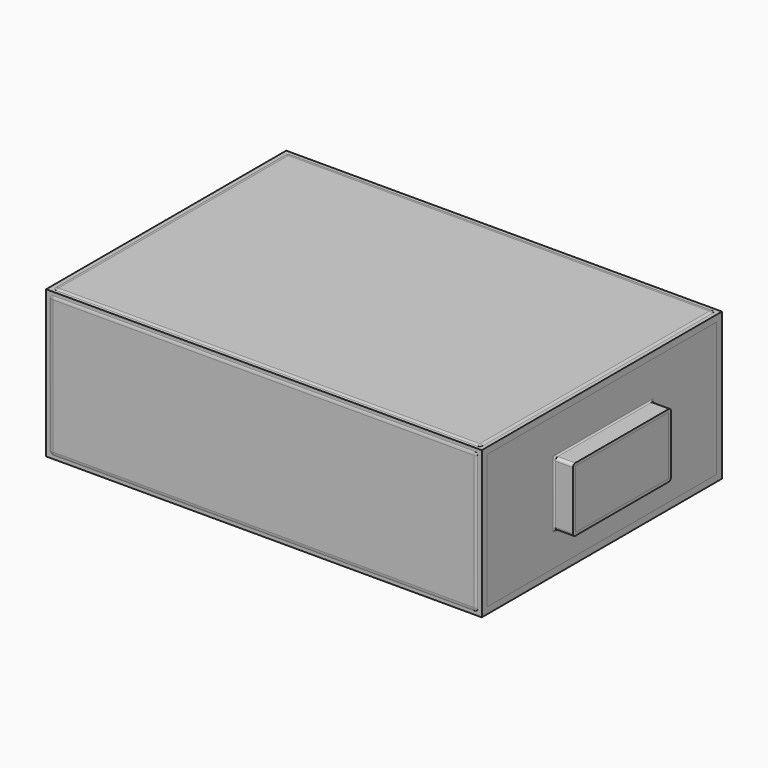
from build123d import *

# Parameters (mm, degrees)
SKETCH001_W       = 299
SKETCH001_H       = 206
PAD_DEPTH         = 91.5
PAD_DEPTH_BACK    = 9.5
SKETCH002_W       = 295
SKETCH002_H       = 203
PAD001_DEPTH      = 90
PAD001_DEPTH_BACK = 8
SKETCH003_W       = 80
SKETCH003_H       = 40
PAD002_DEPTH      = 275
PAD002_DEPTH_BACK = 50
FILLET001_R       = 3
THICKNESS_T       = 2
FILLET_R          = 2
ARRAY_X_COUNT     = 5
ARRAY_X_PITCH     = 50


with BuildPart() as obj1:
    # Sketch001 → Pad (new body, two sides)
    with BuildSketch(Plane.XY) as pad_sk:
        with Locations((112.5, -67)):
            Rectangle(SKETCH001_W, SKETCH001_H)
    extrude(amount=PAD_DEPTH)
    extrude(pad_sk.sketch, amount=-PAD_DEPTH_BACK)


with BuildPart() as obj2:
    # Sketch002 → Pad001 (new body, two sides)
    with BuildSketch(Plane.XY) as pad001_sk:
        with Locations((112.5, -67)):
            Rectangle(SKETCH002_W, SKETCH002_H)
    extrude(amount=PAD001_DEPTH)
    extrude(pad001_sk.sketch, amount=-PAD001_DEPTH_BACK)

    # Sketch003 → Pad002 (join, two sides)
    with BuildSketch(Plane.YZ) as pad002_sk:
        with Locations((-66, 40)):
            Rectangle(SKETCH003_W, SKETCH003_H)
    extrude(amount=PAD002_DEPTH)
    extrude(pad002_sk.sketch, amount=-PAD002_DEPTH_BACK)

    # Fillet001
    fillet001_edges = [obj2.edges().sort_by_distance(p)[0] for p in [
        (-35, -67, 90),
        (112.5, -168.5, 90),
        (260, -67, 90),
        (112.5, 34.5, 90),
        (260, 34.5, 41),
        (-35, 34.5, 41),
        (112.5, 34.5, -8),
        (260, -168.5, 41),
        (260, -67, -8),
        (260, -66, 60),
        (260, -26, 40),
        (260, -66, 20),
        (260, -106, 40),
        (-35, -67, -8),
        (112.5, -168.5, -8),
        (-35, -168.5, 41),
        (-35, -66, 20),
        (-35, -26, 40),
        (-35, -66, 60),
        (-35, -106, 40),
    ]]
    fillet(fillet001_edges, radius=FILLET001_R)


with BuildPart() as obj3:
    # Body004 base: copy of obj2
    add(obj2.part)

    # Thickness
    thickness_openings = [obj3.faces().sort_by_distance(p)[0] for p in [
        (275, -66, 40),
        (-50, -66, 40),
    ]]
    offset(amount=THICKNESS_T, openings=thickness_openings)


with BuildPart() as array:
    # Sketch → Revolution (revolve)
    with BuildSketch(Plane.XZ):
        Polygon((0, 0), (23, 0), (23, 80), (7, 80), (7, 82), (0, 82), align=None)
    revolve(axis=Axis((0, 0, 0), (0, 0, 1)))

    # Fillet
    fillet_edges = [array.edges().sort_by_distance(p)[0] for p in [
        (-23, 0, 80),
        (-23, 0, 0),
    ]]
    fillet(fillet_edges, radius=FILLET_R)

    # Array X: Array ×5


with BuildPart() as array_1:
    add(array.part)
    with Locations(*[(i * ARRAY_X_PITCH, 0, 0) for i in range(1, ARRAY_X_COUNT)]):
        add(array.part)


with BuildPart() as array001:
    # Clone001 base: copy of Array
    add(array_1.part)


with BuildPart() as array001_1:
    # Clone001 placement: moved
    add(array001.part.moved(Location((25, -44, 0))))


with BuildPart() as array002:
    # Clone002 base: copy of Array001
    add(array001_1.part)


with BuildPart() as array002_1:
    # Clone002 placement: moved
    add(array002.part.moved(Location((-25, -45, 0))))


with BuildPart() as array003:
    # Clone003 base: copy of Array001
    add(array001_1.part)


with BuildPart() as array003_1:
    # Clone003 placement: moved
    add(array003.part.moved(Location((0, -91, 0))))


with BuildPart() as body005:
    # Fusion base: copy of Array
    add(array_1.part)

    # Fusion: union Array001, Array002, Array003
    add(array001_1.part)
    add(array002_1.part)
    add(array003_1.part)


with BuildPart() as fluid_domain:
    # Body006 base: copy of obj2
    add(obj2.part)

    # Cut: cut Body005
    add(body005.part, mode=Mode.SUBTRACT)


solid = Compound([obj1.part, obj3.part, fluid_domain.part])
